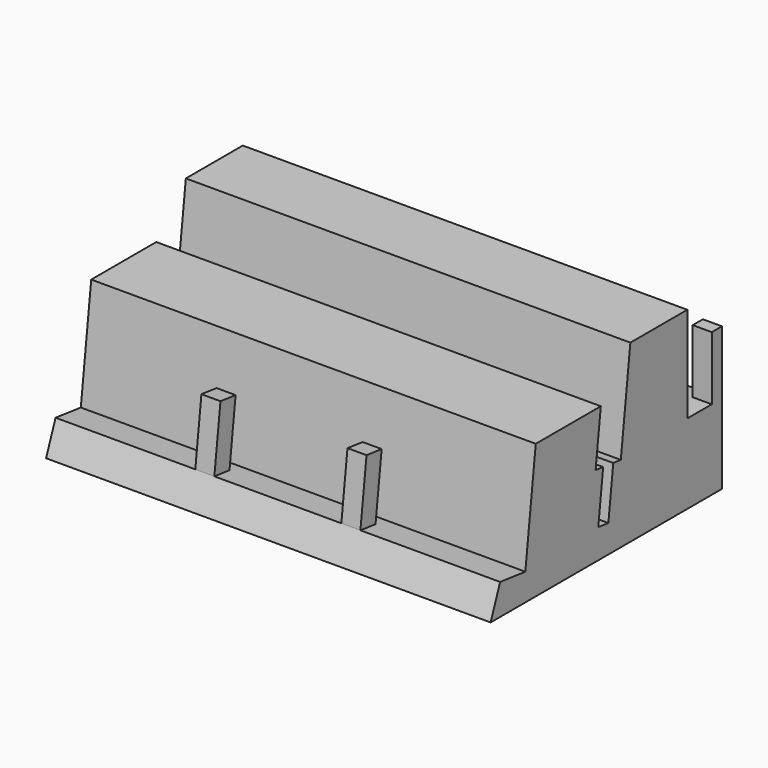
from build123d import *

# Parameters (mm, degrees)
F1_DEPTH  = 35
F2_W      = 6.8124607205
F2_H      = 15.0619698688
F3_DEPTH  = 70
F5_DEPTH  = 70
F6_W      = 3
F6_H      = 3
F7_DEPTH  = 10
F8_W      = 3
F8_H      = 2
F9_DEPTH  = 10
F11_DEPTH = 3


with BuildPart() as f1:
    # F0 (on Right) → F1 (new body, symmetric)
    with BuildSketch(Plane.YZ):
        Polygon((-20.4803533852, 0), (0, 0), (25.0509791076, 0), (25.0509791076, 27.6123592876), (-9.8410505696, 27.6123592876), align=None)
    extrude(amount=F1_DEPTH, both=True)

    # F2 (on face) → F3 (cut, through all)
    with BuildSketch(Plane.YZ.offset(35)):
        Polygon((7.0281750523, 27.6123592876), (1.9915826587, 27.6123592876), (0.1867247932, 12.7213389033), (1.6758268317, 12.5408531167), (0.7132359701, 4.5989755784), (2.6987053547, 4.358327863), (3.6612962162, 12.3002054013), (5.1503982547, 12.1197196148), align=None)
        Polygon((-13.6446588918, 4.256867985), (-11.2603206785, 23.9289040036), (-18.6083323532, 4.8584872735), align=None)
        with Locations((21.6447487473, 20.0813743531)):
            Rectangle(F2_W, F2_H)
    extrude(amount=-F3_DEPTH, mode=Mode.SUBTRACT)

    # F4 (on face) → F5 (cut, through all)
    with BuildSketch(Plane.YZ.offset(35)):
        Polygon((-11.2603206785, 23.9289040036), (-11.5959745991, 21.1595837877), (1.2094775837, 21.1595837877), (1.9915826587, 27.6123592876), (-9.8410505696, 27.6123592876), align=None)
    extrude(amount=-F5_DEPTH, mode=Mode.SUBTRACT)

    # F6 (on face) → F7 (join)
    with BuildSketch(Plane(origin=(0, 0.3109364051, 2.5653877984), x_dir=(1, 0, 0), z_dir=(0, 0.1203238577, 0.9927346923))):
        with Locations((11.5, -17.557729024)):
            Rectangle(F6_W, F6_H)
        with Locations((-11.5, -17.557729024)):
            Rectangle(F6_W, F6_H)
    extrude(amount=F7_DEPTH)

    # F8 (on face) → F9 (join)
    with BuildSketch(Plane.XY.offset(12.5503894187)):
        with Locations((33.5, 24.0509791076)):
            Rectangle(F8_W, F8_H)
        with Locations((-33.5, 24.0509791076)):
            Rectangle(F8_W, F8_H)
    extrude(amount=F9_DEPTH)

    # F10 (on face) → F11 (cut)
    with BuildSketch(Plane(origin=(0, 25.0509791076, 0), x_dir=(-1, 0, 0), z_dir=(0, 1, 0))):
        Polygon((13, 12.5503894187), (0, 12.5503894187), (-13, 12.5503894187), (-13, 2.5503894187), (13, 2.5503894187), align=None)
    extrude(amount=-F11_DEPTH, mode=Mode.SUBTRACT)


solid = f1.part
